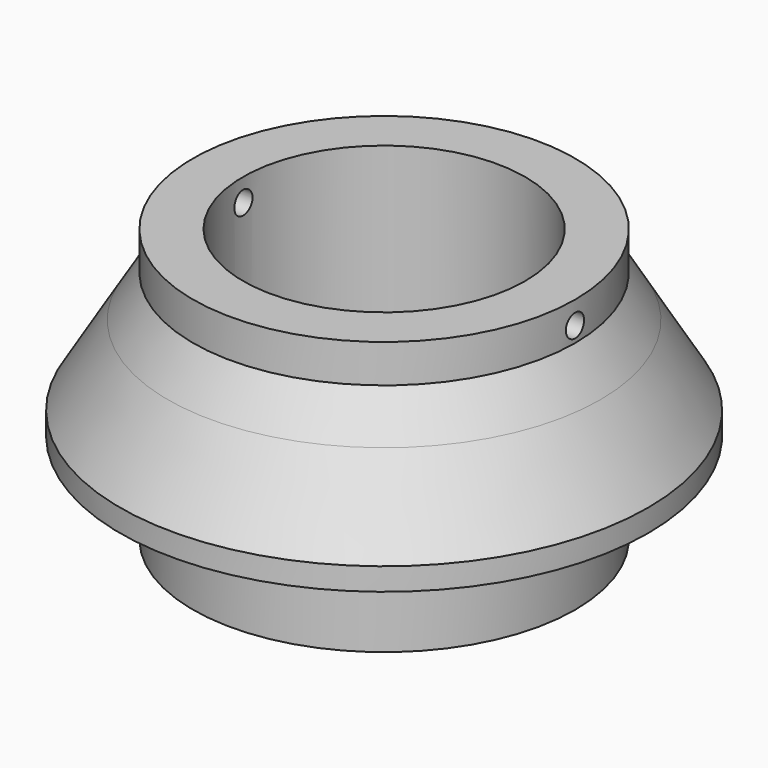
from build123d import *

# Parameters (mm, degrees)
F2_R          = 1.25
F3_DEPTH      = 29.001
F3_DEPTH_BACK = 25


with BuildPart() as f1:
    # F0 (on Front) → F1 (revolve)
    with BuildSketch(Plane.XZ):
        Polygon((21, 21.2053321302), (21, 10), (29, 10), (29, 12.4697282932), (23.756984706, 21.2053321302), align=None)
        Polygon((21, 25.7988579593), (21, 21.2053321302), (23.756984706, 21.2053321302), align=None)
        Polygon((15.5, 30), (15.5, 0), (21, 0), (21, 10), (21, 21.2053321302), (21, 25.7988579593), (21, 30), align=None)
    revolve(axis=Axis((0, 0, 17.8434439003), (0, 0, 1)))

    # F2 (on Right) → F3 (cut, two sides)
    with BuildSketch(Plane.YZ) as f3_sk:
        with Locations((0, 27.5)):
            Circle(F2_R)
    extrude(amount=-F3_DEPTH, mode=Mode.SUBTRACT)
    extrude(f3_sk.sketch, amount=F3_DEPTH_BACK, mode=Mode.SUBTRACT)


solid = f1.part
